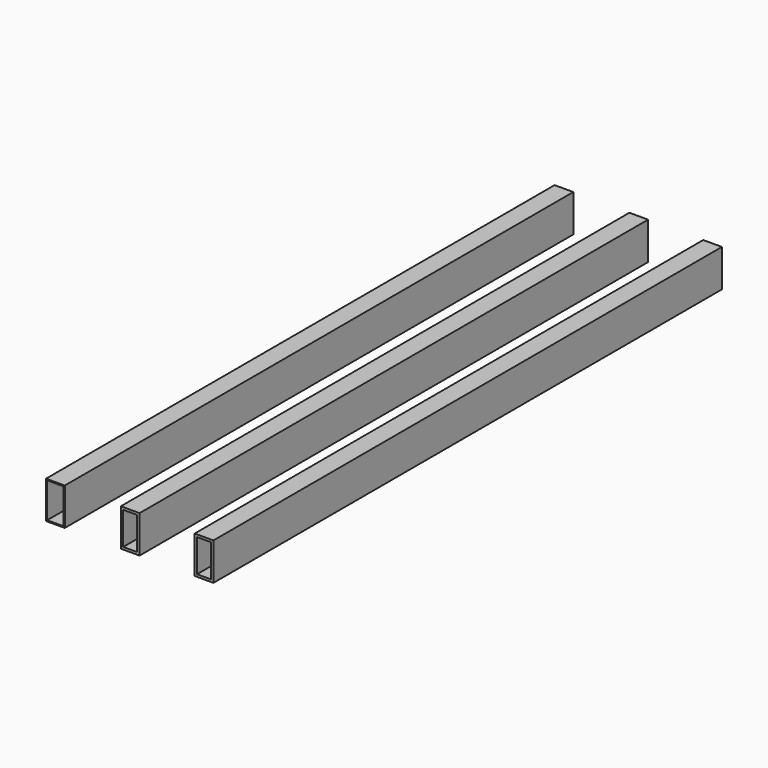
from build123d import *

# Parameters (mm, degrees)
REFINELINEAREXTRUDE004_W         = 50.8
REFINELINEAREXTRUDE004_H         = 25.4
REFINELINEAREXTRUDE004_W_2       = 44.45
REFINELINEAREXTRUDE004_H_2       = 19.05
LINEAREXTRUDE004_DEPTH           = 863.6
LINEAREXTRUDE004_PLACEMENT_ANGLE = 90
REFINELINEAREXTRUDE005_W         = 50.8
REFINELINEAREXTRUDE005_H         = 25.4
REFINELINEAREXTRUDE005_W_2       = 47.625
REFINELINEAREXTRUDE005_H_2       = 22.225
LINEAREXTRUDE005_DEPTH           = 863.6
LINEAREXTRUDE005_PLACEMENT_ANGLE = 90
REFINELINEAREXTRUDE003_W         = 50.8
REFINELINEAREXTRUDE003_H         = 25.4
REFINELINEAREXTRUDE003_W_2       = 44.45
REFINELINEAREXTRUDE003_H_2       = 19.05
LINEAREXTRUDE003_DEPTH           = 863.6
LINEAREXTRUDE003_PLACEMENT_ANGLE = 90


with BuildPart() as linearextrude004:
    # RefineLinearExtrude004 → LinearExtrude004 (new body)
    with BuildSketch(Plane(origin=(0, 0, 0), x_dir=(0, 1, 0), z_dir=(0, 0, 1))):
        Rectangle(REFINELINEAREXTRUDE004_W, REFINELINEAREXTRUDE004_H)
        Rectangle(REFINELINEAREXTRUDE004_W_2, REFINELINEAREXTRUDE004_H_2, mode=Mode.SUBTRACT)
    extrude(amount=LINEAREXTRUDE004_DEPTH)


with BuildPart() as linearextrude004_1:
    # LinearExtrude004 placement: moved
    add(linearextrude004.part.moved(Location((190.5, 25.4, 25.4))).rotate(Axis((190.5, 25.4, 25.4), (-1, 0, 0)), LINEAREXTRUDE004_PLACEMENT_ANGLE))


with BuildPart() as linearextrude005:
    # RefineLinearExtrude005 → LinearExtrude005 (new body)
    with BuildSketch(Plane(origin=(0, 0, 0), x_dir=(0, 1, 0), z_dir=(0, 0, 1))):
        Rectangle(REFINELINEAREXTRUDE005_W, REFINELINEAREXTRUDE005_H)
        Rectangle(REFINELINEAREXTRUDE005_W_2, REFINELINEAREXTRUDE005_H_2, mode=Mode.SUBTRACT)
    extrude(amount=LINEAREXTRUDE005_DEPTH)


with BuildPart() as linearextrude005_1:
    # LinearExtrude005 placement: moved
    add(linearextrude005.part.moved(Location((292.1, 25.4, 25.4))).rotate(Axis((292.1, 25.4, 25.4), (-1, 0, 0)), LINEAREXTRUDE005_PLACEMENT_ANGLE))


with BuildPart() as group001:
    # RefineLinearExtrude003 → LinearExtrude003 (new body)
    with BuildSketch(Plane(origin=(0, 0, 0), x_dir=(0, 1, 0), z_dir=(0, 0, 1))):
        Rectangle(REFINELINEAREXTRUDE003_W, REFINELINEAREXTRUDE003_H)
        Rectangle(REFINELINEAREXTRUDE003_W_2, REFINELINEAREXTRUDE003_H_2, mode=Mode.SUBTRACT)
    extrude(amount=LINEAREXTRUDE003_DEPTH)


with BuildPart() as group001_1:
    # LinearExtrude003 placement: moved
    add(group001.part.moved(Location((90.17, 25.4, 25.4))).rotate(Axis((90.17, 25.4, 25.4), (-1, 0, 0)), LINEAREXTRUDE003_PLACEMENT_ANGLE))

    # Group001: union LinearExtrude004, LinearExtrude005
    add(linearextrude004_1.part)
    add(linearextrude005_1.part)


with BuildPart() as mirrored_group001:
    # mirr_Group001: instance of Group001
    add(group001_1.part.mirror(Plane(origin=(0, 0, 0), x_dir=(0, -1, 0), z_dir=(1, 0, 0))))


solid = mirrored_group001.part
